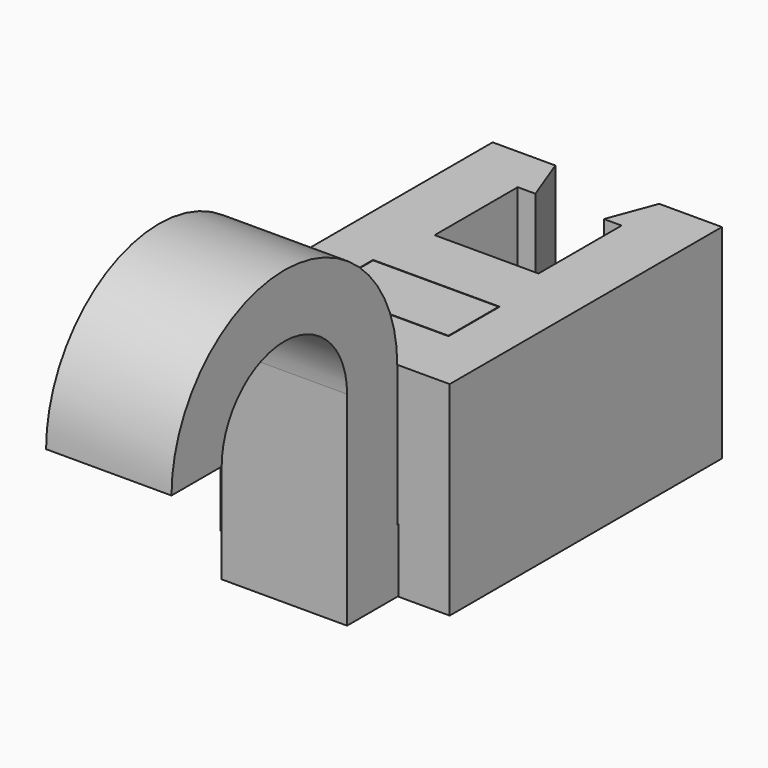
from build123d import *

# Parameters (mm, degrees)
SKETCH_W     = 16.16
SKETCH_H     = 8.16
PAD_DEPTH    = 26
SKETCH001_W  = 16.16
SKETCH001_H  = 8.16
POCKET_DEPTH = 8
PAD001_DEPTH = 8


with BuildPart() as mainbody:
    # Sketch → Pad (new body)
    with BuildSketch(Plane.XY):
        Polygon((-4.3725, 37.41), (-6.625, 43.41), (-14.625, 43.41), (-14.625, 0), (14.625, 0), (14.625, 43.41), (6.625, 43.41), (4.3725, 37.41), (6.625, 37.41), (6.625, 24.16), (-6.625, 24.16), (-6.625, 37.41), align=None)
        with Locations((0, 12.08)):
            Rectangle(SKETCH_W, SKETCH_H, mode=Mode.SUBTRACT)
    extrude(amount=PAD_DEPTH)

    # Sketch001 (on Face4 of Pad) → Pocket (cut)
    with BuildSketch(Plane.XZ):
        with Locations((0, 4.08)):
            Rectangle(SKETCH001_W, SKETCH001_H)
    extrude(amount=-POCKET_DEPTH, mode=Mode.SUBTRACT)


with BuildPart() as hookbody:
    # Sketch002 → Pad001 (new body, symmetric)
    with BuildSketch(Plane.YZ):
        with BuildLine():
            Line((8.08, 26), (8.08, 8))
            Line((8.08, 8), (-0.08, 8))
            Line((-0.08, 8), (-0.08, 26))
            ThreePointArc((-0.08, 26), (-18.08, 44), (-36.08, 26))
            Line((-28.08, 26), (-36.08, 26))
            ThreePointArc((-8.08, 26), (-18.08, 36), (-28.08, 26))
            Line((-8.08, 0), (-8.08, 26))
            Line((16.08, 0), (-8.08, 0))
            Line((16.08, 26), (16.08, 0))
            Line((8.08, 26), (16.08, 26))
        make_face()
    extrude(amount=PAD001_DEPTH, both=True)


solid = Compound([mainbody.part, hookbody.part])
